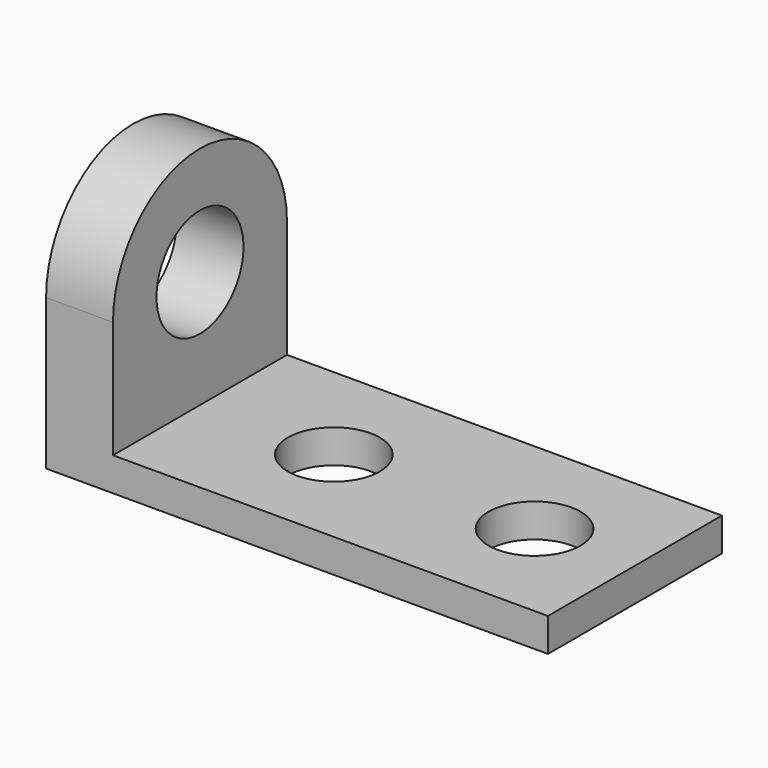
from build123d import *

# Parameters (mm, degrees)
F1_DEPTH = 82.55
F3_DEPTH = 25.4
F4_R     = 20.6375
F5_DEPTH = 25.4
F6_R     = 17.4625
F7_DEPTH = 12.7


with BuildPart() as f1:
    # F0 (on Front) → F1 (new body)
    with BuildSketch(Plane.XZ):
        Polygon((0, 165.1), (0, 0), (190.5, 0), (190.5, 12.7), (25.4, 12.7), (25.4, 165.1), align=None)
    extrude(amount=F1_DEPTH)

    # F2 (on face) → F3 (cut, through all)
    with BuildSketch(Plane(origin=(0, 0, 0), x_dir=(0, -1, 0), z_dir=(-1, 0, 0))):
        with BuildLine():
            ThreePointArc((0, 57.15), (41.275, 98.425), (82.55, 57.15))
            Line((82.55, 57.15), (82.55, 165.1))
            Line((82.55, 165.1), (0, 165.1))
            Line((0, 165.1), (0, 57.15))
        make_face()
    extrude(amount=-F3_DEPTH, mode=Mode.SUBTRACT)

    # F4 (on face) → F5 (cut, through all)
    with BuildSketch(Plane(origin=(0, 0, 0), x_dir=(0, -1, 0), z_dir=(-1, 0, 0))):
        with Locations((41.275, 57.15)):
            Circle(F4_R)
    extrude(amount=-F5_DEPTH, mode=Mode.SUBTRACT)

    # F6 (on face) → F7 (cut, through all)
    with BuildSketch(Plane.XY.offset(12.7)):
        with Locations((76.2, -41.275)):
            Circle(F6_R)
        with Locations((152.4, -41.275)):
            Circle(F6_R)
    extrude(amount=-F7_DEPTH, mode=Mode.SUBTRACT)


solid = f1.part
